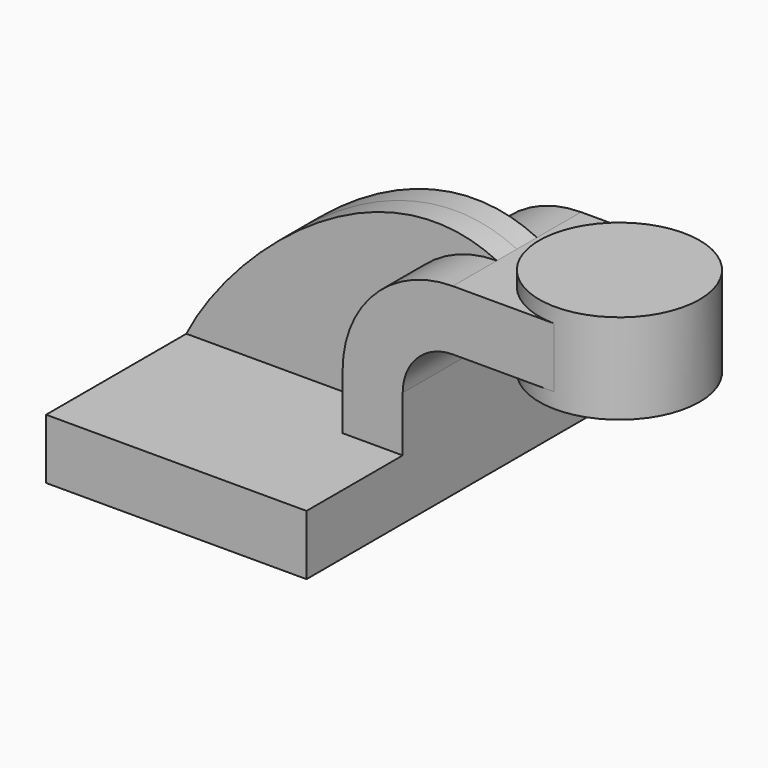
from build123d import *

# Parameters (mm, degrees)
F1_DEPTH = 63.5
F0_W     = 25.3957551599
F0_H     = 19.05
F2_DEPTH = 25.4
F3_DEPTH = 7.9375


with BuildPart() as f1:
    # F0 (on Front) → F1 (new body, symmetric)
    with BuildSketch(Plane.XZ):
        Polygon((-41.275, 9.525), (-41.275, -9.525), (41.275, -9.525), (41.275, 9.525), (22.225, 9.525), align=None)
    extrude(amount=F1_DEPTH, both=True)

    # F0 (on Front) → F2 (join, symmetric)
    with BuildSketch(Plane.XZ):
        with BuildLine():
            Line((22.225, 9.525), (41.275, 9.525))
            Line((41.275, 9.525), (41.275, 27.0002))
            ThreePointArc((41.275, 27.0002), (45.9246798487, 38.2255201513), (57.15, 42.8752))
            Line((57.15, 42.8752), (64.2539668202, 42.8752))
            Line((64.2539668202, 42.8752), (64.2539668202, 61.9252))
            Line((64.2539668202, 61.9252), (57.15, 61.9252))
            ThreePointArc((57.15, 61.9252), (32.4542956671, 51.6959043329), (22.225, 27.0002))
            Line((22.225, 27.0002), (22.225, 9.525))
        make_face()
        with Locations((76.9518444002, 52.4002)):
            Rectangle(F0_W, F0_H)
    extrude(amount=F2_DEPTH, both=True)

    # F0 (on Front) → F3 (join, symmetric)
    with BuildSketch(Plane.XZ):
        with BuildLine():
            add(Edge.make_bspline(
                [(-41.275, 9.525), (-27.2662733646, 37.6478243732), (19.1320432894, 80.2122490874), (57.15, 61.9252)],
                knots=[0, 0, 0, 0, 111.5045361635, 111.5045361635, 111.5045361635, 111.5045361635], degree=3))
            Line((-41.275, 9.525), (22.225, 9.525))
            Line((22.225, 9.525), (22.225, 27.0002))
            ThreePointArc((22.225, 27.0002), (32.4542956671, 51.6959043329), (57.15, 61.9252))
        make_face()
    extrude(amount=F3_DEPTH, both=True)

    # F0 (on Front) → F4 (revolve)
    with BuildSketch(Plane.XZ):
        Polygon((89.6497219801, 66.675), (89.6497219801, 61.9252), (89.6497219801, 42.8752), (89.6497219801, 38.1), (115.0539668202, 38.1), (115.0539668202, 66.675), align=None)
    revolve(axis=Axis((89.6497219801, 0, 52.3875), (0, 0, 1)))


solid = f1.part
